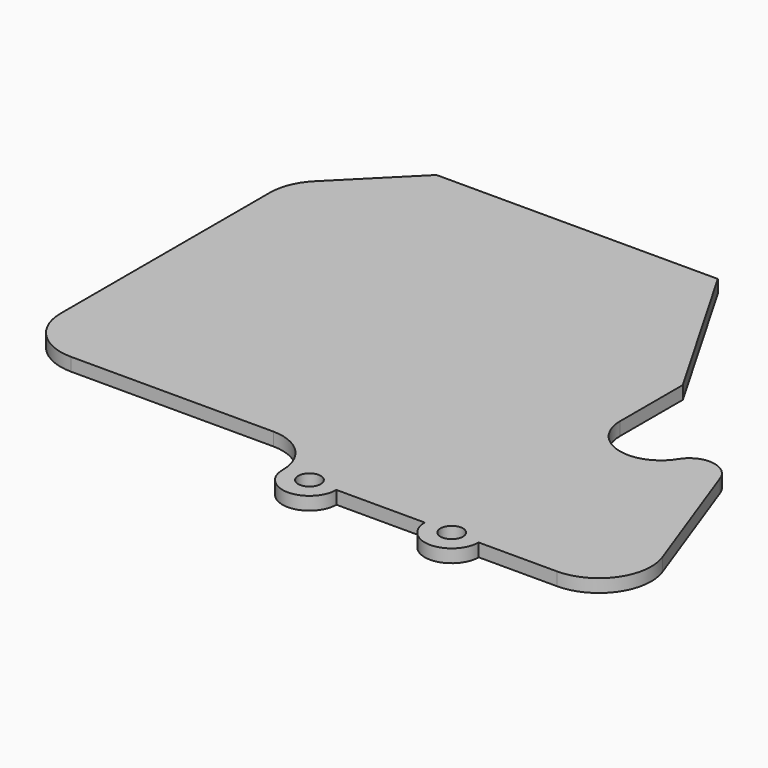
from build123d import *

# Parameters (mm, degrees)
F0_R     = 2.7305
F1_DEPTH = 3.175


with BuildPart() as f1:
    # F0 (on Top) → F1 (new body)
    with BuildSketch(Plane.XY):
        with BuildLine():
            ThreePointArc((-51.525256, 40.796056), (-54.27827, 36.67588), (-55.245, 31.8158))
            Line((-55.245, 31.8158), (-55.245, -31.6842))
            ThreePointArc((-55.245, -31.6842), (-51.525256, -40.664456), (-42.545, -44.3842))
            Line((-42.545, -44.3842), (6.5405, -44.3842))
            ThreePointArc((6.5405, -44.3842), (14.488027, -47.676173), (17.78, -55.6237))
            ThreePointArc((17.78, -55.6237), (24.3205, -62.1642), (30.861, -55.6237))
            Line((30.861, -55.6237), (52.324, -55.6237))
            ThreePointArc((52.324, -55.6237), (58.8645, -62.1642), (65.405, -55.6237))
            Line((65.405, -55.6237), (84.455, -55.6237))
            ThreePointArc((84.455, -55.6237), (94.858231, -50.208121), (96.389096, -38.580044))
            Line((96.389096, -38.580044), (84.663213, -6.363445))
            ThreePointArc((84.663213, -6.363445), (79.473629, -2.316497), (73.566562, -5.217555))
            ThreePointArc((73.566562, -5.217555), (62.436201, -9.525), (55.245, 0))
            Line((55.245, 0), (55.245, 19.05))
            Line((55.245, 19.05), (33.209965, 57.2158))
            Line((33.209965, 57.2158), (-35.105512, 57.2158))
            Line((-35.105512, 57.2158), (-51.525256, 40.796056))
        make_face()
        with Locations((24.3205, -55.6237)):
            Circle(F0_R, mode=Mode.SUBTRACT)
        with Locations((58.8645, -55.6237)):
            Circle(F0_R, mode=Mode.SUBTRACT)
    extrude(amount=F1_DEPTH)


solid = f1.part
